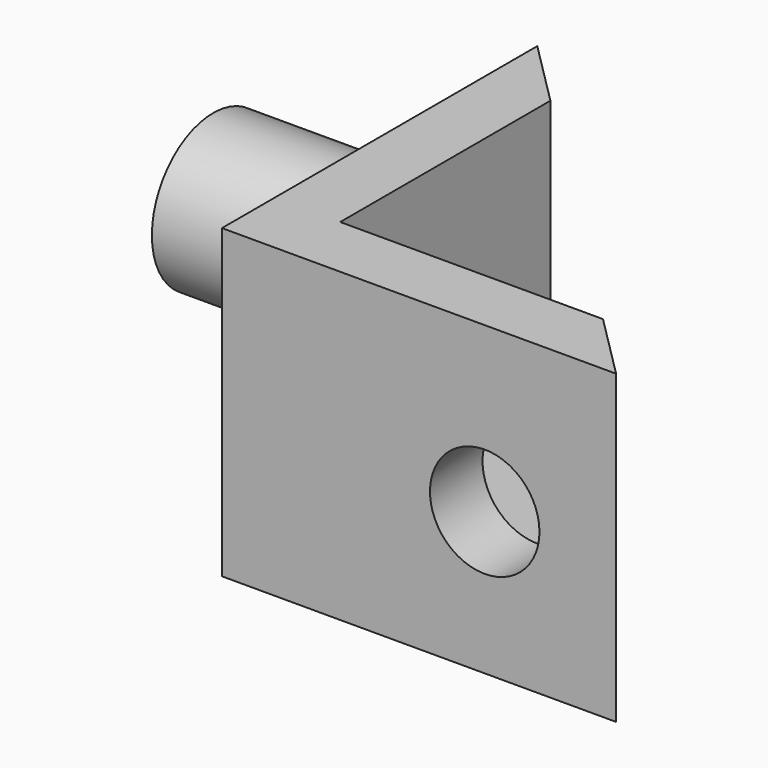
from build123d import *

# Parameters (mm, degrees)
F1_DEPTH = 2
F3_DEPTH = 12
F4_R     = 3.5
F5_DEPTH = 10
F6_R     = 2.5
F7_DEPTH = 18.001


with BuildPart() as f1:
    # F0 (on Top) → F1 (new body)
    with BuildSketch(Plane.XY):
        Polygon((0, 18), (0, 0), (18, 0), align=None)
    extrude(amount=F1_DEPTH)

    # F2 (on face) → F3 (join)
    with BuildSketch(Plane.XY.offset(2)):
        Polygon((0, 18), (0, 0), (18, 0), (15, 3), (3, 3), (3, 15), align=None)
    extrude(amount=F3_DEPTH)

    # F4 (on face) → F5 (join)
    with BuildSketch(Plane(origin=(0, 0, 0), x_dir=(0, -1, 0), z_dir=(-1, 0, 0))):
        with Locations((-12, 7)):
            Circle(F4_R)
    extrude(amount=F5_DEPTH)

    # F6 (on face) → F7 (cut, through all)
    with BuildSketch(Plane.XZ):
        with Locations((12, 6.5)):
            Circle(F6_R)
    extrude(amount=-F7_DEPTH, mode=Mode.SUBTRACT)


solid = f1.part
